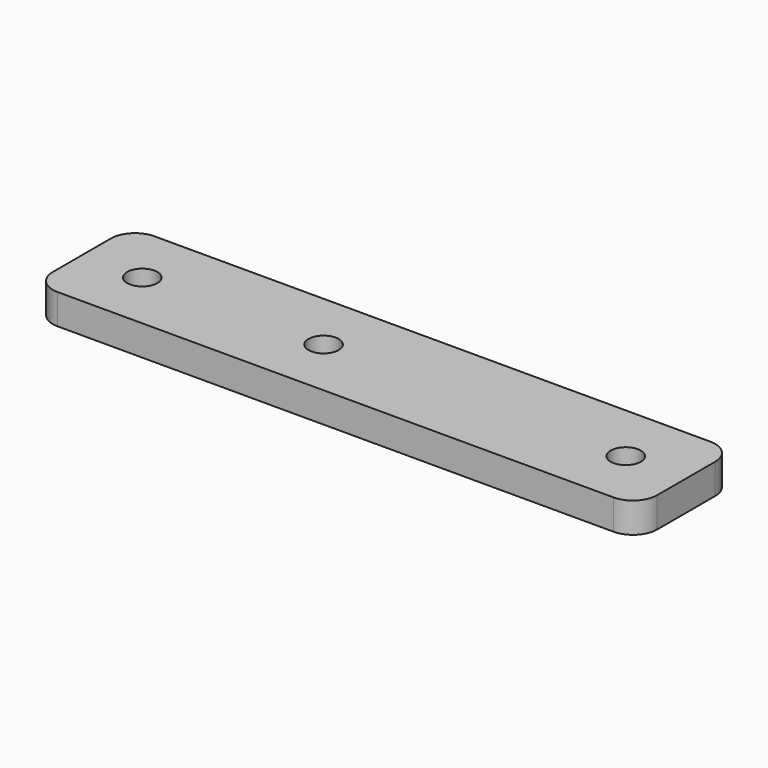
from build123d import *

# Parameters (mm, degrees)
F0_R     = 3.175
F1_DEPTH = 6.35


with BuildPart() as f1:
    # F0 (on Top) → F1 (new body)
    with BuildSketch(Plane.XY):
        with BuildLine():
            ThreePointArc((0, 5.08), (1.487898, 1.487898), (5.08, 0))
            Line((5.08, 0), (121.92, 0))
            ThreePointArc((121.92, 0), (125.512102, 1.487898), (127, 5.08))
            Line((127, 5.08), (127, 20.32))
            ThreePointArc((127, 20.32), (125.512102, 23.912102), (121.92, 25.4))
            Line((121.92, 25.4), (5.08, 25.4))
            ThreePointArc((5.08, 25.4), (1.487898, 23.912102), (0, 20.32))
            Line((0, 20.32), (0, 5.08))
        make_face()
        with Locations((12.7, 12.7)):
            Circle(F0_R, mode=Mode.SUBTRACT)
        with Locations((50.8, 12.7)):
            Circle(F0_R, mode=Mode.SUBTRACT)
        with Locations((114.3, 12.7)):
            Circle(F0_R, mode=Mode.SUBTRACT)
    extrude(amount=-F1_DEPTH)


solid = f1.part
